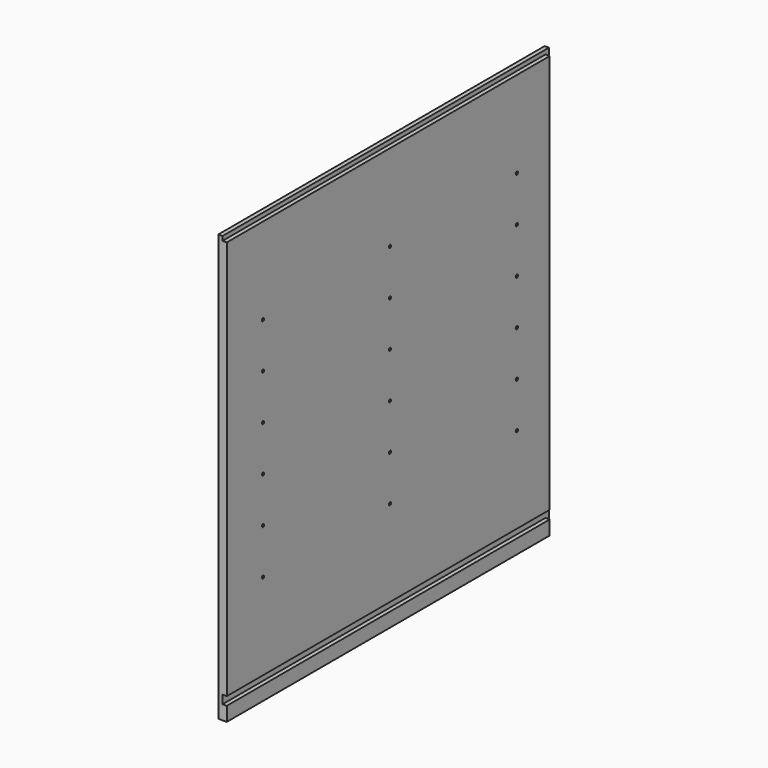
from build123d import *

# Parameters (mm, degrees)
F0_W     = 914.4
F0_H     = 955.675
F2_DEPTH = 9.525
F1_W     = 904.875
F1_H     = 895.35
F1_H_2   = 31.75
F3_DEPTH = 9.525
F5_D     = 6.35
F5_DEPTH = 6.35
F5_TIP   = 1.9077324654


with BuildPart() as f2:
    # F0 (on Right) → F2 (new body)
    with BuildSketch(Plane.YZ):
        Rectangle(F0_W, F0_H)
    extrude(amount=-F2_DEPTH)

    # F1 (on face) → F3 (join)
    with BuildSketch(Plane.YZ):
        with Locations((-4.7625, 20.6375)):
            Rectangle(F1_W, F1_H)
        with Locations((-4.7625, -461.9625)):
            Rectangle(F1_W, F1_H_2)
    extrude(amount=F3_DEPTH)

    # F5
    with Locations(Plane.YZ.offset(9.525)):
        with Locations((-355.6, 274.6375), (0, -30.1625), (-355.6, 173.0375), (0, 173.0375), (355.6, 173.0375), (-355.6, 71.4375), (355.6, -30.1625), (0, 274.6375), (0, -131.7625), (0, 71.4375), (-355.6, -131.7625), (355.6, 274.6375), (355.6, -233.3625), (-355.6, -233.3625), (355.6, -131.7625), (0, -233.3625), (-355.6, -30.1625), (355.6, 71.4375)):
            Hole(F5_D / 2, depth=F5_DEPTH)
            with Locations((0, 0, -(F5_DEPTH + F5_TIP / 2))):  # 118° drill point
                Cone(0, F5_D / 2, F5_TIP, mode=Mode.SUBTRACT)


solid = f2.part
